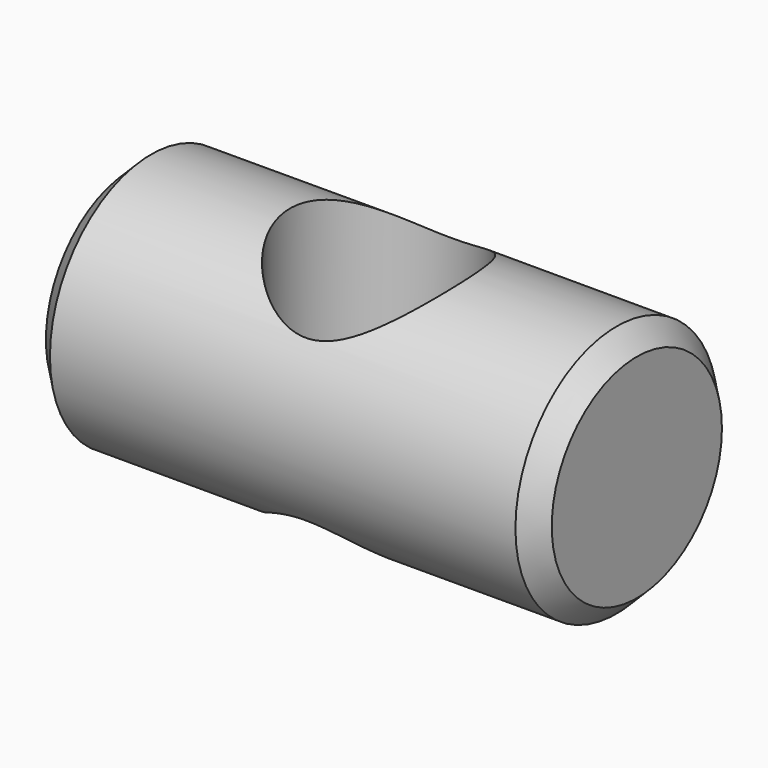
from build123d import *

# Parameters (mm, degrees)
F0_R     = 4.765
F1_DEPTH = 9.525
F2_SIZE  = 0.76
F3_R     = 3.43
F4_DEPTH = 12.7


with BuildPart() as f1:
    # F0 (on Right) → F1 (new body, symmetric)
    with BuildSketch(Plane.YZ):
        Circle(F0_R)
    extrude(amount=F1_DEPTH, both=True)

    # F2
    f2_edges = [f1.edges().sort_by_distance(p)[0] for p in [
        (-9.525, -4.765, 0),
        (0, 4.765, 0),
        (9.525, -4.765, 0),
    ]]
    chamfer(f2_edges, length=F2_SIZE)

    # F3 (on Top) → F4 (cut, symmetric)
    with BuildSketch(Plane.XY):
        with Locations((0, -0.25)):
            Circle(F3_R)
    extrude(amount=F4_DEPTH, both=True, mode=Mode.SUBTRACT)


solid = f1.part
